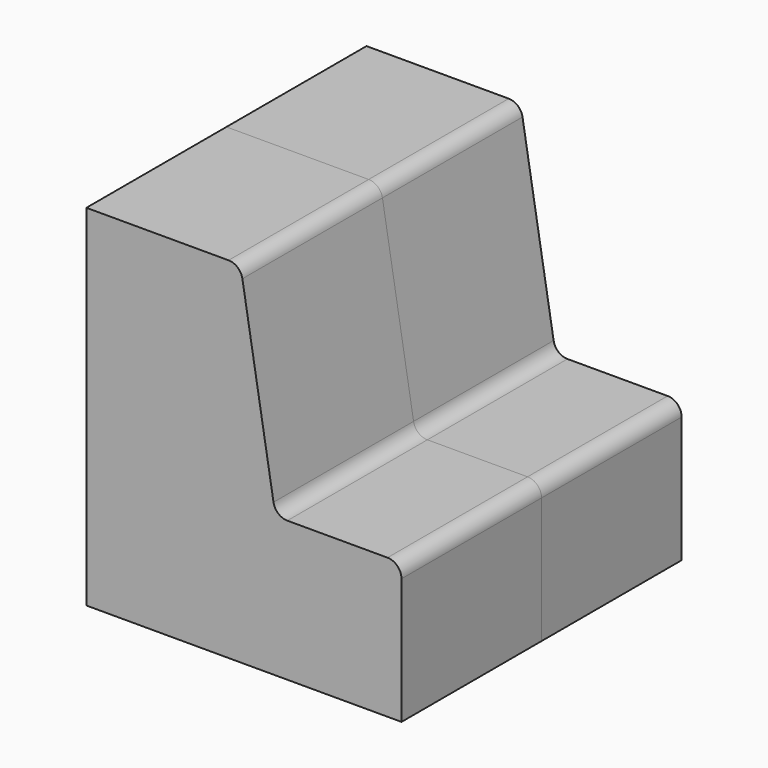
from build123d import *

# Parameters (mm, degrees)
F1_DEPTH = 25
F2_DEPTH = 25


with BuildPart() as f1:
    # F0 (on Front) → F1 (new body)
    with BuildSketch(Plane.XZ):
        with BuildLine():
            Line((0, 50), (0, 0))
            Line((0, 0), (45, 0))
            Line((45, 0), (45, 18))
            ThreePointArc((45, 18), (44.414214, 19.414214), (43, 20))
            Line((43, 20), (28.694254, 20))
            ThreePointArc((28.694254, 20), (27.401504, 20.47396), (26.721466, 21.671202))
            Line((26.721466, 21.671202), (22.278534, 48.328798))
            ThreePointArc((22.278534, 48.328798), (21.598496, 49.52604), (20.305746, 50))
            Line((20.305746, 50), (0, 50))
        make_face()
    extrude(amount=F1_DEPTH)


with BuildPart() as f2:
    # F1_face (on face) → F2 (new body)
    with BuildSketch(Plane(origin=(17.899305, -25, 20.9996), x_dir=(1, 0, 0), z_dir=(0, -1, 0))):
        with BuildLine():
            Line((-17.899305, 29.0004), (-17.899305, -20.9996))
            Line((-17.899305, -20.9996), (27.100695, -20.9996))
            Line((27.100695, -20.9996), (27.100695, -2.9996))
            ThreePointArc((27.100695, -2.9996), (26.514909, -1.585387), (25.100695, -0.9996))
            Line((25.100695, -0.9996), (10.79495, -0.9996))
            ThreePointArc((10.79495, -0.9996), (9.5022, -0.52564), (8.822162, 0.671602))
            Line((8.822162, 0.671602), (4.379229, 27.329198))
            ThreePointArc((4.379229, 27.329198), (3.699191, 28.52644), (2.406441, 29.0004))
            Line((2.406441, 29.0004), (-17.899305, 29.0004))
        make_face()
    extrude(amount=F2_DEPTH)


solid = Compound([f1.part, f2.part])
